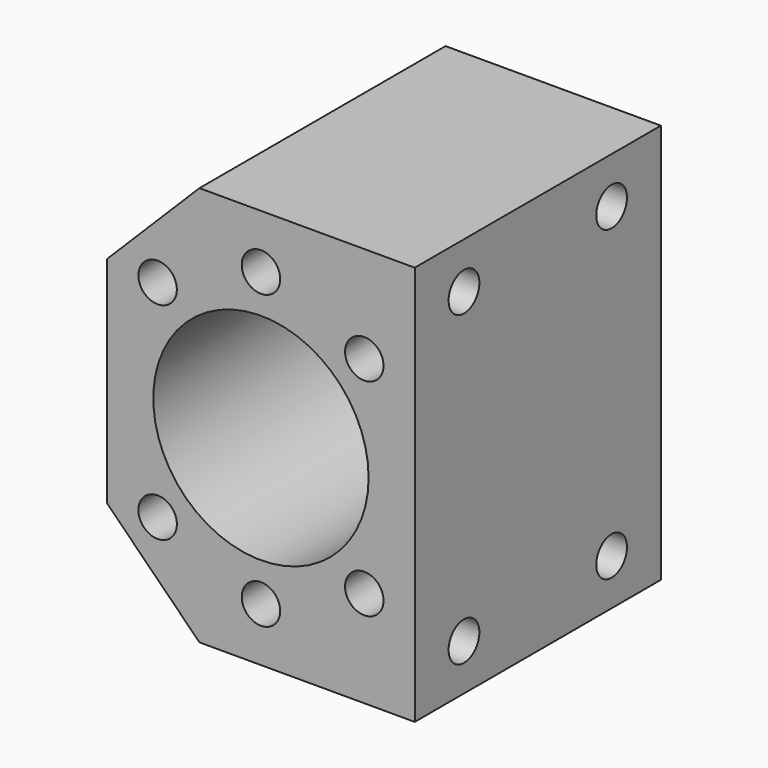
from build123d import *

# Parameters (mm, degrees)
F1_DEPTH = 20
F2_R     = 14
F3_DEPTH = 40
F4_R     = 2.5
F5_DEPTH = 16
F6_R     = 2.5
F7_DEPTH = 14


with BuildPart() as f1:
    # F0 (on Front) → F1 (new body, symmetric)
    with BuildSketch(Plane.XZ):
        Polygon((20, -26), (20, 26), (-8, 26), (-20, 14), (-20, -14), (-8, -26), align=None)
    extrude(amount=F1_DEPTH, both=True)

    # F2 (on face) → F3 (cut)
    with BuildSketch(Plane.XZ.offset(20)):
        Circle(F2_R)
    extrude(amount=-F3_DEPTH, mode=Mode.SUBTRACT)

    # F4 (on face) → F5 (cut)
    with BuildSketch(Plane.XZ.offset(20)):
        with Locations((-13.435029, 13.435029)):
            Circle(F4_R)
        with Locations((13.435029, 13.435029)):
            Circle(F4_R)
        with Locations((-13.435029, -13.435029)):
            Circle(F4_R)
        with Locations((13.435029, -13.435029)):
            Circle(F4_R)
        with Locations((0, 19)):
            Circle(F4_R)
        with Locations((0, -19)):
            Circle(F4_R)
    extrude(amount=-F5_DEPTH, mode=Mode.SUBTRACT)

    # F6 (on face) → F7 (cut)
    with BuildSketch(Plane.YZ.offset(20)):
        with Locations((-12, 20)):
            Circle(F6_R)
        with Locations((12, 20)):
            Circle(F6_R)
        with Locations((12, -20)):
            Circle(F6_R)
        with Locations((-12, -20)):
            Circle(F6_R)
    extrude(amount=-F7_DEPTH, mode=Mode.SUBTRACT)


solid = f1.part
